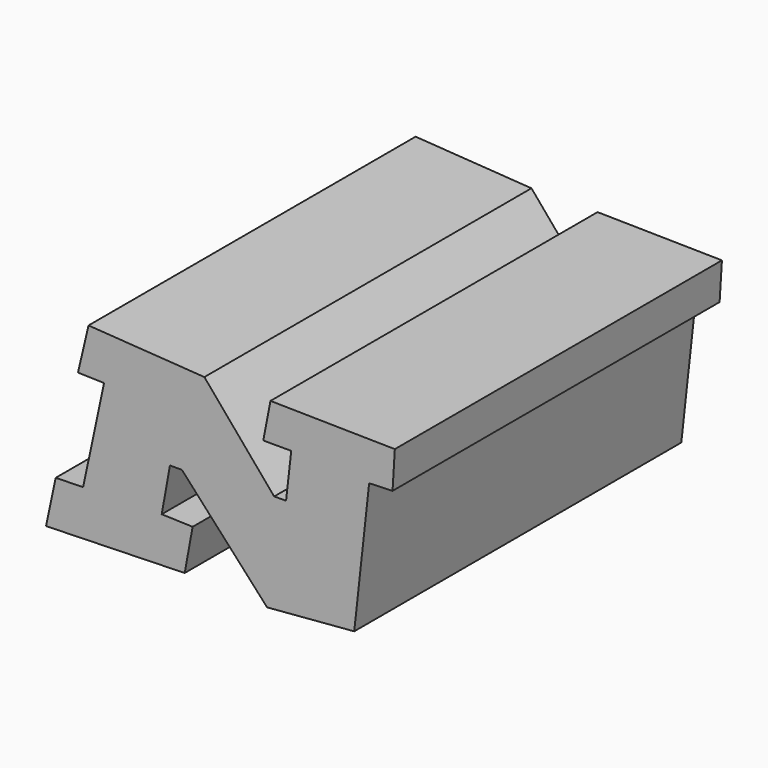
from build123d import *

# Parameters (mm, degrees)
F1_DEPTH = 25.4


with BuildPart() as f1:
    # F0 (on Front) → F1 (new body)
    with BuildSketch(Plane.XZ):
        Polygon((22.165287, -3.513166), (14.967241, -3.031607), (14.313924, -5.823614), (15.934104, -5.86625), (14.633697, -11.984563), (12.928244, -12.027199), (12.331334, -14.862516), (20.943873, -14.628015), (21.43419, -11.941927), (19.515555, -11.877973), (20.027192, -9.042657), (20.773327, -9.042657), (26.060231, -14.841197), (31.475045, -14.393516), (32.402154, -5.991453), (33.854187, -5.937674), (33.997599, -3.607247), (26.271336, -3.481762), (25.823176, -5.794263), (27.562033, -5.794263), (27.23936, -8.626629), (26.50043, -8.634212), align=None)
    extrude(amount=F1_DEPTH)


solid = f1.part
